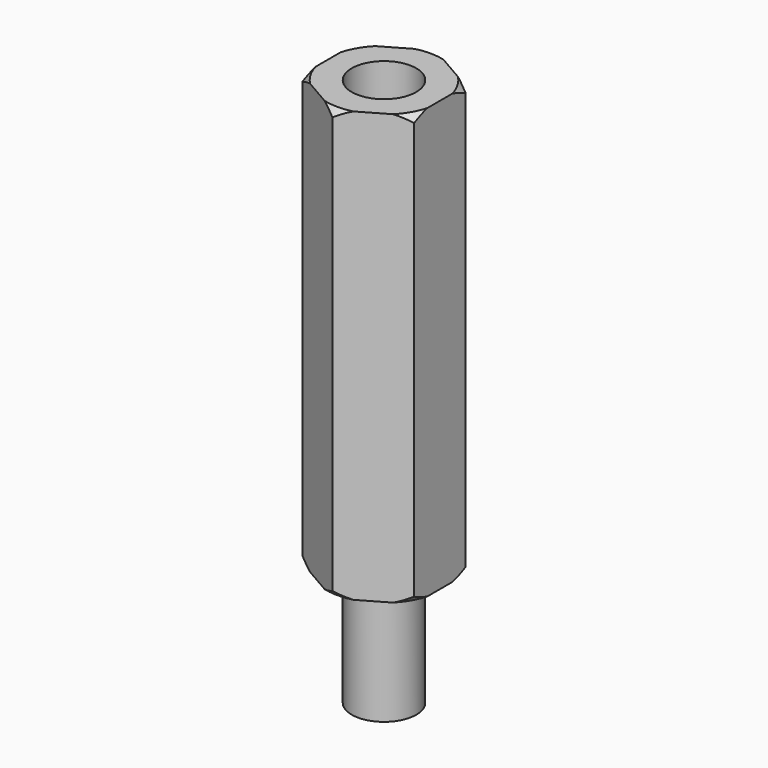
from build123d import *

# Parameters (mm, degrees)
PAD_DEPTH    = 10
SKETCH001_R  = 1.5
POCKET_DEPTH = 15
SKETCH002_R  = 1.5
PAD001_DEPTH = 5.5


with BuildPart() as body001:
    # Sketch003 → Revolution (revolve)
    with BuildSketch(Plane.YZ):
        Polygon((2.2, 10.5), (5.2, 10.5), (5.2, -10.5), (2.2, -10.5), (3.444538, -9.255462), (3.444538, 9.255462), align=None)
    revolve(axis=Axis((0, 0, 0), (0, 0, 1)))


with BuildPart() as cut:
    # Sketch → Pad (new body, symmetric)
    with BuildSketch(Plane.XY):
        Polygon((2.6, 1.501111), (0, 3.002221), (-2.6, 1.501111), (-2.6, -1.501111), (0, -3.002221), (2.6, -1.501111), align=None)
    extrude(amount=PAD_DEPTH, both=True)

    # Sketch001 (on Face8 of Pad) → Pocket (cut)
    with BuildSketch(Plane.XY.offset(10)):
        Circle(SKETCH001_R)
    extrude(amount=-POCKET_DEPTH, mode=Mode.SUBTRACT)

    # Sketch002 (on Face4 of Pocket) → Pad001 (join)
    with BuildSketch(Plane(origin=(0, 0, -10), x_dir=(1, 0, 0), z_dir=(0, 0, -1))):
        Circle(SKETCH002_R)
    extrude(amount=PAD001_DEPTH)

    # Cut: cut Body001
    add(body001.part, mode=Mode.SUBTRACT)


solid = cut.part
